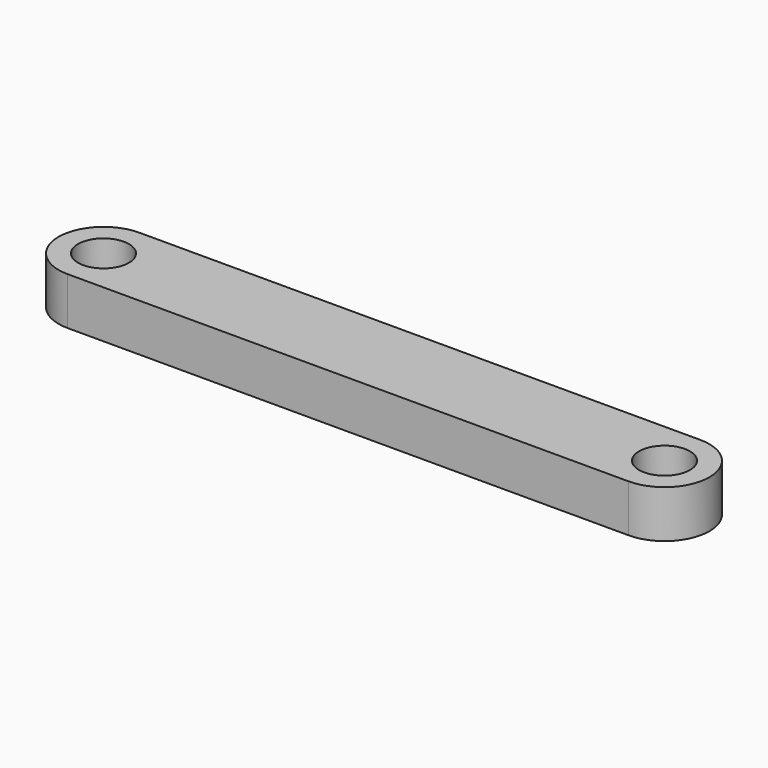
from build123d import *

# Parameters (mm, degrees)
PAD_DEPTH   = 3.175
SKETCH001_R = 1.7
HOLE_DEPTH  = 3.176


with BuildPart() as part:
    # Sketch → Pad (new body)
    with BuildSketch(Plane.XY):
        with BuildLine():
            ThreePointArc((0, 3), (-3, 0), (0, -3))
            Line((0, -3), (37.5, -3))
            ThreePointArc((37.5, -3), (40.5, 0), (37.5, 3))
            Line((0, 3), (37.5, 3))
        make_face()
    extrude(amount=PAD_DEPTH)

    # Sketch001 (on Face6 of Pad) → Hole (cut, through all)
    with BuildSketch(Plane.XY.offset(3.175)):
        Circle(SKETCH001_R)
        with Locations((37.5, 0)):
            Circle(SKETCH001_R)
    extrude(amount=-HOLE_DEPTH, mode=Mode.SUBTRACT)


solid = part.part
